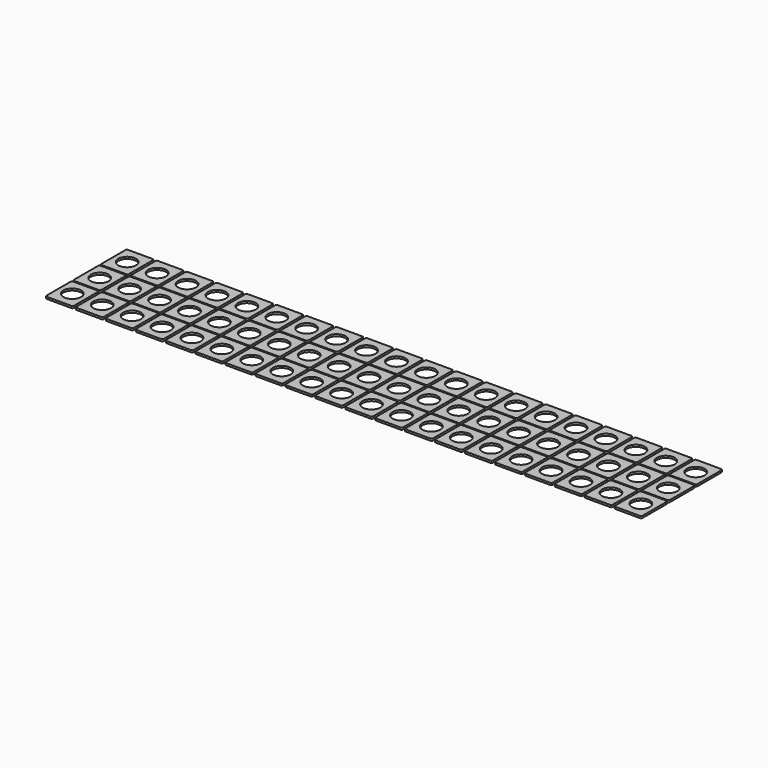
from build123d import *

# Parameters (mm, degrees)
F0_R     = 6.5
F1_DEPTH = 1.45


with BuildPart() as f1:
    # F0 (on Top) → F1 (new body)
    with BuildSketch(Plane.XY):
        with BuildLine():
            Line((-216, 135), (-234, 135))
            ThreePointArc((-234, 135), (-234.707107, 134.707107), (-235, 134))
            Line((-235, 134), (-235, 112))
            ThreePointArc((-235, 112), (-234.707107, 111.292893), (-234, 111))
            Line((-234, 111), (-216, 111))
            ThreePointArc((-216, 111), (-215.292893, 111.292893), (-215, 112))
            Line((-215, 112), (-215, 134))
            ThreePointArc((-215, 134), (-215.292893, 134.707107), (-216, 135))
        make_face()
        with Locations((-225, 123)):
            Circle(F0_R, mode=Mode.SUBTRACT)
        with BuildLine():
            ThreePointArc((-234, 110), (-234.707107, 109.707107), (-235, 109))
            Line((-235, 109), (-235, 87))
            ThreePointArc((-235, 87), (-234.707107, 86.292893), (-234, 86))
            Line((-234, 86), (-216, 86))
            ThreePointArc((-216, 86), (-215.292893, 86.292893), (-215, 87))
            Line((-215, 87), (-215, 109))
            ThreePointArc((-215, 109), (-215.292893, 109.707107), (-216, 110))
            Line((-216, 110), (-234, 110))
        make_face()
        with Locations((-225, 98)):
            Circle(F0_R, mode=Mode.SUBTRACT)
        with BuildLine():
            ThreePointArc((-234, 85), (-234.707107, 84.707107), (-235, 84))
            Line((-235, 84), (-235, 62))
            ThreePointArc((-235, 62), (-234.707107, 61.292893), (-234, 61))
            Line((-234, 61), (-216, 61))
            ThreePointArc((-216, 61), (-215.292893, 61.292893), (-215, 62))
            Line((-215, 62), (-215, 84))
            ThreePointArc((-215, 84), (-215.292893, 84.707107), (-216, 85))
            Line((-216, 85), (-234, 85))
        make_face()
        with Locations((-225, 73)):
            Circle(F0_R, mode=Mode.SUBTRACT)
        with BuildLine():
            ThreePointArc((-212.2, 135), (-212.907107, 134.707107), (-213.2, 134))
            Line((-213.2, 134), (-213.2, 112))
            ThreePointArc((-213.2, 112), (-212.907107, 111.292893), (-212.2, 111))
            Line((-212.2, 111), (-194.2, 111))
            ThreePointArc((-194.2, 111), (-193.492893, 111.292893), (-193.2, 112))
            Line((-193.2, 112), (-193.2, 134))
            ThreePointArc((-193.2, 134), (-193.492893, 134.707107), (-194.2, 135))
            Line((-194.2, 135), (-212.2, 135))
        make_face()
        with Locations((-203.2, 123)):
            Circle(F0_R, mode=Mode.SUBTRACT)
        with BuildLine():
            ThreePointArc((-212.2, 110), (-212.907107, 109.707107), (-213.2, 109))
            Line((-213.2, 109), (-213.2, 87))
            ThreePointArc((-213.2, 87), (-212.907107, 86.292893), (-212.2, 86))
            Line((-212.2, 86), (-194.2, 86))
            ThreePointArc((-194.2, 86), (-193.492893, 86.292893), (-193.2, 87))
            Line((-193.2, 87), (-193.2, 109))
            ThreePointArc((-193.2, 109), (-193.492893, 109.707107), (-194.2, 110))
            Line((-194.2, 110), (-212.2, 110))
        make_face()
        with Locations((-203.2, 98)):
            Circle(F0_R, mode=Mode.SUBTRACT)
        with BuildLine():
            ThreePointArc((-212.2, 85), (-212.907107, 84.707107), (-213.2, 84))
            Line((-213.2, 84), (-213.2, 62))
            ThreePointArc((-213.2, 62), (-212.907107, 61.292893), (-212.2, 61))
            Line((-212.2, 61), (-194.2, 61))
            ThreePointArc((-194.2, 61), (-193.492893, 61.292893), (-193.2, 62))
            Line((-193.2, 62), (-193.2, 84))
            ThreePointArc((-193.2, 84), (-193.492893, 84.707107), (-194.2, 85))
            Line((-194.2, 85), (-212.2, 85))
        make_face()
        with Locations((-203.2, 73)):
            Circle(F0_R, mode=Mode.SUBTRACT)
        with BuildLine():
            ThreePointArc((-190.4, 135), (-191.107107, 134.707107), (-191.4, 134))
            Line((-191.4, 134), (-191.4, 112))
            ThreePointArc((-191.4, 112), (-191.107107, 111.292893), (-190.4, 111))
            Line((-190.4, 111), (-172.4, 111))
            ThreePointArc((-172.4, 111), (-171.692893, 111.292893), (-171.4, 112))
            Line((-171.4, 112), (-171.4, 134))
            ThreePointArc((-171.4, 134), (-171.692893, 134.707107), (-172.4, 135))
            Line((-172.4, 135), (-190.4, 135))
        make_face()
        with Locations((-181.4, 123)):
            Circle(F0_R, mode=Mode.SUBTRACT)
        with BuildLine():
            ThreePointArc((-190.4, 110), (-191.107107, 109.707107), (-191.4, 109))
            Line((-191.4, 109), (-191.4, 87))
            ThreePointArc((-191.4, 87), (-191.107107, 86.292893), (-190.4, 86))
            Line((-190.4, 86), (-172.4, 86))
            ThreePointArc((-172.4, 86), (-171.692893, 86.292893), (-171.4, 87))
            Line((-171.4, 87), (-171.4, 109))
            ThreePointArc((-171.4, 109), (-171.692893, 109.707107), (-172.4, 110))
            Line((-172.4, 110), (-190.4, 110))
        make_face()
        with Locations((-181.4, 98)):
            Circle(F0_R, mode=Mode.SUBTRACT)
        with BuildLine():
            ThreePointArc((-190.4, 85), (-191.107107, 84.707107), (-191.4, 84))
            Line((-191.4, 84), (-191.4, 62))
            ThreePointArc((-191.4, 62), (-191.107107, 61.292893), (-190.4, 61))
            Line((-190.4, 61), (-172.4, 61))
            ThreePointArc((-172.4, 61), (-171.692893, 61.292893), (-171.4, 62))
            Line((-171.4, 62), (-171.4, 84))
            ThreePointArc((-171.4, 84), (-171.692893, 84.707107), (-172.4, 85))
            Line((-172.4, 85), (-190.4, 85))
        make_face()
        with Locations((-181.4, 73)):
            Circle(F0_R, mode=Mode.SUBTRACT)
        with BuildLine():
            ThreePointArc((-168.6, 135), (-169.307107, 134.707107), (-169.6, 134))
            Line((-169.6, 134), (-169.6, 112))
            ThreePointArc((-169.6, 112), (-169.307107, 111.292893), (-168.6, 111))
            Line((-168.6, 111), (-150.6, 111))
            ThreePointArc((-150.6, 111), (-149.892893, 111.292893), (-149.6, 112))
            Line((-149.6, 112), (-149.6, 134))
            ThreePointArc((-149.6, 134), (-149.892893, 134.707107), (-150.6, 135))
            Line((-150.6, 135), (-168.6, 135))
        make_face()
        with Locations((-159.6, 123)):
            Circle(F0_R, mode=Mode.SUBTRACT)
        with BuildLine():
            ThreePointArc((-168.6, 110), (-169.307107, 109.707107), (-169.6, 109))
            Line((-169.6, 109), (-169.6, 87))
            ThreePointArc((-169.6, 87), (-169.307107, 86.292893), (-168.6, 86))
            Line((-168.6, 86), (-150.6, 86))
            ThreePointArc((-150.6, 86), (-149.892893, 86.292893), (-149.6, 87))
            Line((-149.6, 87), (-149.6, 109))
            ThreePointArc((-149.6, 109), (-149.892893, 109.707107), (-150.6, 110))
            Line((-150.6, 110), (-168.6, 110))
        make_face()
        with Locations((-159.6, 98)):
            Circle(F0_R, mode=Mode.SUBTRACT)
        with BuildLine():
            ThreePointArc((-168.6, 85), (-169.307107, 84.707107), (-169.6, 84))
            Line((-169.6, 84), (-169.6, 62))
            ThreePointArc((-169.6, 62), (-169.307107, 61.292893), (-168.6, 61))
            Line((-168.6, 61), (-150.6, 61))
            ThreePointArc((-150.6, 61), (-149.892893, 61.292893), (-149.6, 62))
            Line((-149.6, 62), (-149.6, 84))
            ThreePointArc((-149.6, 84), (-149.892893, 84.707107), (-150.6, 85))
            Line((-150.6, 85), (-168.6, 85))
        make_face()
        with Locations((-159.6, 73)):
            Circle(F0_R, mode=Mode.SUBTRACT)
        with BuildLine():
            ThreePointArc((-146.8, 135), (-147.507107, 134.707107), (-147.8, 134))
            Line((-147.8, 134), (-147.8, 112))
            ThreePointArc((-147.8, 112), (-147.507107, 111.292893), (-146.8, 111))
            Line((-146.8, 111), (-128.8, 111))
            ThreePointArc((-128.8, 111), (-128.092893, 111.292893), (-127.8, 112))
            Line((-127.8, 112), (-127.8, 134))
            ThreePointArc((-127.8, 134), (-128.092893, 134.707107), (-128.8, 135))
            Line((-128.8, 135), (-146.8, 135))
        make_face()
        with Locations((-137.8, 123)):
            Circle(F0_R, mode=Mode.SUBTRACT)
        with BuildLine():
            ThreePointArc((-146.8, 110), (-147.507107, 109.707107), (-147.8, 109))
            Line((-147.8, 109), (-147.8, 87))
            ThreePointArc((-147.8, 87), (-147.507107, 86.292893), (-146.8, 86))
            Line((-146.8, 86), (-128.8, 86))
            ThreePointArc((-128.8, 86), (-128.092893, 86.292893), (-127.8, 87))
            Line((-127.8, 87), (-127.8, 109))
            ThreePointArc((-127.8, 109), (-128.092893, 109.707107), (-128.8, 110))
            Line((-128.8, 110), (-146.8, 110))
        make_face()
        with Locations((-137.8, 98)):
            Circle(F0_R, mode=Mode.SUBTRACT)
        with BuildLine():
            ThreePointArc((-146.8, 85), (-147.507107, 84.707107), (-147.8, 84))
            Line((-147.8, 84), (-147.8, 62))
            ThreePointArc((-147.8, 62), (-147.507107, 61.292893), (-146.8, 61))
            Line((-146.8, 61), (-128.8, 61))
            ThreePointArc((-128.8, 61), (-128.092893, 61.292893), (-127.8, 62))
            Line((-127.8, 62), (-127.8, 84))
            ThreePointArc((-127.8, 84), (-128.092893, 84.707107), (-128.8, 85))
            Line((-128.8, 85), (-146.8, 85))
        make_face()
        with Locations((-137.8, 73)):
            Circle(F0_R, mode=Mode.SUBTRACT)
        with BuildLine():
            ThreePointArc((-125, 135), (-125.707107, 134.707107), (-126, 134))
            Line((-126, 134), (-126, 112))
            ThreePointArc((-126, 112), (-125.707107, 111.292893), (-125, 111))
            Line((-125, 111), (-107, 111))
            ThreePointArc((-107, 111), (-106.292893, 111.292893), (-106, 112))
            Line((-106, 112), (-106, 134))
            ThreePointArc((-106, 134), (-106.292893, 134.707107), (-107, 135))
            Line((-107, 135), (-125, 135))
        make_face()
        with Locations((-116, 123)):
            Circle(F0_R, mode=Mode.SUBTRACT)
        with BuildLine():
            ThreePointArc((-125, 110), (-125.707107, 109.707107), (-126, 109))
            Line((-126, 109), (-126, 87))
            ThreePointArc((-126, 87), (-125.707107, 86.292893), (-125, 86))
            Line((-125, 86), (-107, 86))
            ThreePointArc((-107, 86), (-106.292893, 86.292893), (-106, 87))
            Line((-106, 87), (-106, 109))
            ThreePointArc((-106, 109), (-106.292893, 109.707107), (-107, 110))
            Line((-107, 110), (-125, 110))
        make_face()
        with Locations((-116, 98)):
            Circle(F0_R, mode=Mode.SUBTRACT)
        with BuildLine():
            ThreePointArc((-125, 85), (-125.707107, 84.707107), (-126, 84))
            Line((-126, 84), (-126, 62))
            ThreePointArc((-126, 62), (-125.707107, 61.292893), (-125, 61))
            Line((-125, 61), (-107, 61))
            ThreePointArc((-107, 61), (-106.292893, 61.292893), (-106, 62))
            Line((-106, 62), (-106, 84))
            ThreePointArc((-106, 84), (-106.292893, 84.707107), (-107, 85))
            Line((-107, 85), (-125, 85))
        make_face()
        with Locations((-116, 73)):
            Circle(F0_R, mode=Mode.SUBTRACT)
        with BuildLine():
            ThreePointArc((-103.2, 135), (-103.907107, 134.707107), (-104.2, 134))
            Line((-104.2, 134), (-104.2, 112))
            ThreePointArc((-104.2, 112), (-103.907107, 111.292893), (-103.2, 111))
            Line((-103.2, 111), (-85.2, 111))
            ThreePointArc((-85.2, 111), (-84.492893, 111.292893), (-84.2, 112))
            Line((-84.2, 112), (-84.2, 134))
            ThreePointArc((-84.2, 134), (-84.492893, 134.707107), (-85.2, 135))
            Line((-85.2, 135), (-103.2, 135))
        make_face()
        with Locations((-94.2, 123)):
            Circle(F0_R, mode=Mode.SUBTRACT)
        with BuildLine():
            ThreePointArc((-103.2, 110), (-103.907107, 109.707107), (-104.2, 109))
            Line((-104.2, 109), (-104.2, 87))
            ThreePointArc((-104.2, 87), (-103.907107, 86.292893), (-103.2, 86))
            Line((-103.2, 86), (-85.2, 86))
            ThreePointArc((-85.2, 86), (-84.492893, 86.292893), (-84.2, 87))
            Line((-84.2, 87), (-84.2, 109))
            ThreePointArc((-84.2, 109), (-84.492893, 109.707107), (-85.2, 110))
            Line((-85.2, 110), (-103.2, 110))
        make_face()
        with Locations((-94.2, 98)):
            Circle(F0_R, mode=Mode.SUBTRACT)
        with BuildLine():
            ThreePointArc((-103.2, 85), (-103.907107, 84.707107), (-104.2, 84))
            Line((-104.2, 84), (-104.2, 62))
            ThreePointArc((-104.2, 62), (-103.907107, 61.292893), (-103.2, 61))
            Line((-103.2, 61), (-85.2, 61))
            ThreePointArc((-85.2, 61), (-84.492893, 61.292893), (-84.2, 62))
            Line((-84.2, 62), (-84.2, 84))
            ThreePointArc((-84.2, 84), (-84.492893, 84.707107), (-85.2, 85))
            Line((-85.2, 85), (-103.2, 85))
        make_face()
        with Locations((-94.2, 73)):
            Circle(F0_R, mode=Mode.SUBTRACT)
        with BuildLine():
            ThreePointArc((-81.4, 135), (-82.107107, 134.707107), (-82.4, 134))
            Line((-82.4, 134), (-82.4, 112))
            ThreePointArc((-82.4, 112), (-82.107107, 111.292893), (-81.4, 111))
            Line((-81.4, 111), (-63.4, 111))
            ThreePointArc((-63.4, 111), (-62.692893, 111.292893), (-62.4, 112))
            Line((-62.4, 112), (-62.4, 134))
            ThreePointArc((-62.4, 134), (-62.692893, 134.707107), (-63.4, 135))
            Line((-63.4, 135), (-81.4, 135))
        make_face()
        with Locations((-72.4, 123)):
            Circle(F0_R, mode=Mode.SUBTRACT)
        with BuildLine():
            ThreePointArc((-81.4, 110), (-82.107107, 109.707107), (-82.4, 109))
            Line((-82.4, 109), (-82.4, 87))
            ThreePointArc((-82.4, 87), (-82.107107, 86.292893), (-81.4, 86))
            Line((-81.4, 86), (-63.4, 86))
            ThreePointArc((-63.4, 86), (-62.692893, 86.292893), (-62.4, 87))
            Line((-62.4, 87), (-62.4, 109))
            ThreePointArc((-62.4, 109), (-62.692893, 109.707107), (-63.4, 110))
            Line((-63.4, 110), (-81.4, 110))
        make_face()
        with Locations((-72.4, 98)):
            Circle(F0_R, mode=Mode.SUBTRACT)
        with BuildLine():
            ThreePointArc((-81.4, 85), (-82.107107, 84.707107), (-82.4, 84))
            Line((-82.4, 84), (-82.4, 62))
            ThreePointArc((-82.4, 62), (-82.107107, 61.292893), (-81.4, 61))
            Line((-81.4, 61), (-63.4, 61))
            ThreePointArc((-63.4, 61), (-62.692893, 61.292893), (-62.4, 62))
            Line((-62.4, 62), (-62.4, 84))
            ThreePointArc((-62.4, 84), (-62.692893, 84.707107), (-63.4, 85))
            Line((-63.4, 85), (-81.4, 85))
        make_face()
        with Locations((-72.4, 73)):
            Circle(F0_R, mode=Mode.SUBTRACT)
        with BuildLine():
            ThreePointArc((-59.6, 135), (-60.307107, 134.707107), (-60.6, 134))
            Line((-60.6, 134), (-60.6, 112))
            ThreePointArc((-60.6, 112), (-60.307107, 111.292893), (-59.6, 111))
            Line((-59.6, 111), (-41.6, 111))
            ThreePointArc((-41.6, 111), (-40.892893, 111.292893), (-40.6, 112))
            Line((-40.6, 112), (-40.6, 134))
            ThreePointArc((-40.6, 134), (-40.892893, 134.707107), (-41.6, 135))
            Line((-41.6, 135), (-59.6, 135))
        make_face()
        with Locations((-50.6, 123)):
            Circle(F0_R, mode=Mode.SUBTRACT)
        with BuildLine():
            ThreePointArc((-59.6, 110), (-60.307107, 109.707107), (-60.6, 109))
            Line((-60.6, 109), (-60.6, 87))
            ThreePointArc((-60.6, 87), (-60.307107, 86.292893), (-59.6, 86))
            Line((-59.6, 86), (-41.6, 86))
            ThreePointArc((-41.6, 86), (-40.892893, 86.292893), (-40.6, 87))
            Line((-40.6, 87), (-40.6, 109))
            ThreePointArc((-40.6, 109), (-40.892893, 109.707107), (-41.6, 110))
            Line((-41.6, 110), (-59.6, 110))
        make_face()
        with Locations((-50.6, 98)):
            Circle(F0_R, mode=Mode.SUBTRACT)
        with BuildLine():
            ThreePointArc((-59.6, 85), (-60.307107, 84.707107), (-60.6, 84))
            Line((-60.6, 84), (-60.6, 62))
            ThreePointArc((-60.6, 62), (-60.307107, 61.292893), (-59.6, 61))
            Line((-59.6, 61), (-41.6, 61))
            ThreePointArc((-41.6, 61), (-40.892893, 61.292893), (-40.6, 62))
            Line((-40.6, 62), (-40.6, 84))
            ThreePointArc((-40.6, 84), (-40.892893, 84.707107), (-41.6, 85))
            Line((-41.6, 85), (-59.6, 85))
        make_face()
        with Locations((-50.6, 73)):
            Circle(F0_R, mode=Mode.SUBTRACT)
        with BuildLine():
            ThreePointArc((-37.8, 135), (-38.507107, 134.707107), (-38.8, 134))
            Line((-38.8, 134), (-38.8, 112))
            ThreePointArc((-38.8, 112), (-38.507107, 111.292893), (-37.8, 111))
            Line((-37.8, 111), (-19.8, 111))
            ThreePointArc((-19.8, 111), (-19.092893, 111.292893), (-18.8, 112))
            Line((-18.8, 112), (-18.8, 134))
            ThreePointArc((-18.8, 134), (-19.092893, 134.707107), (-19.8, 135))
            Line((-19.8, 135), (-37.8, 135))
        make_face()
        with Locations((-28.8, 123)):
            Circle(F0_R, mode=Mode.SUBTRACT)
        with BuildLine():
            ThreePointArc((-37.8, 110), (-38.507107, 109.707107), (-38.8, 109))
            Line((-38.8, 109), (-38.8, 87))
            ThreePointArc((-38.8, 87), (-38.507107, 86.292893), (-37.8, 86))
            Line((-37.8, 86), (-19.8, 86))
            ThreePointArc((-19.8, 86), (-19.092893, 86.292893), (-18.8, 87))
            Line((-18.8, 87), (-18.8, 109))
            ThreePointArc((-18.8, 109), (-19.092893, 109.707107), (-19.8, 110))
            Line((-19.8, 110), (-37.8, 110))
        make_face()
        with Locations((-28.8, 98)):
            Circle(F0_R, mode=Mode.SUBTRACT)
        with BuildLine():
            ThreePointArc((-37.8, 85), (-38.507107, 84.707107), (-38.8, 84))
            Line((-38.8, 84), (-38.8, 62))
            ThreePointArc((-38.8, 62), (-38.507107, 61.292893), (-37.8, 61))
            Line((-37.8, 61), (-19.8, 61))
            ThreePointArc((-19.8, 61), (-19.092893, 61.292893), (-18.8, 62))
            Line((-18.8, 62), (-18.8, 84))
            ThreePointArc((-18.8, 84), (-19.092893, 84.707107), (-19.8, 85))
            Line((-19.8, 85), (-37.8, 85))
        make_face()
        with Locations((-28.8, 73)):
            Circle(F0_R, mode=Mode.SUBTRACT)
        with BuildLine():
            ThreePointArc((-16, 135), (-16.707107, 134.707107), (-17, 134))
            Line((-17, 134), (-17, 112))
            ThreePointArc((-17, 112), (-16.707107, 111.292893), (-16, 111))
            Line((-16, 111), (2, 111))
            ThreePointArc((2, 111), (2.707107, 111.292893), (3, 112))
            Line((3, 112), (3, 134))
            ThreePointArc((3, 134), (2.707107, 134.707107), (2, 135))
            Line((2, 135), (-16, 135))
        make_face()
        with Locations((-7, 123)):
            Circle(F0_R, mode=Mode.SUBTRACT)
        with BuildLine():
            ThreePointArc((-16, 110), (-16.707107, 109.707107), (-17, 109))
            Line((-17, 109), (-17, 87))
            ThreePointArc((-17, 87), (-16.707107, 86.292893), (-16, 86))
            Line((-16, 86), (2, 86))
            ThreePointArc((2, 86), (2.707107, 86.292893), (3, 87))
            Line((3, 87), (3, 109))
            ThreePointArc((3, 109), (2.707107, 109.707107), (2, 110))
            Line((2, 110), (-16, 110))
        make_face()
        with Locations((-7, 98)):
            Circle(F0_R, mode=Mode.SUBTRACT)
        with BuildLine():
            ThreePointArc((-16, 85), (-16.707107, 84.707107), (-17, 84))
            Line((-17, 84), (-17, 62))
            ThreePointArc((-17, 62), (-16.707107, 61.292893), (-16, 61))
            Line((-16, 61), (2, 61))
            ThreePointArc((2, 61), (2.707107, 61.292893), (3, 62))
            Line((3, 62), (3, 84))
            ThreePointArc((3, 84), (2.707107, 84.707107), (2, 85))
            Line((2, 85), (-16, 85))
        make_face()
        with Locations((-7, 73)):
            Circle(F0_R, mode=Mode.SUBTRACT)
        with BuildLine():
            ThreePointArc((5.8, 135), (5.092893, 134.707107), (4.8, 134))
            Line((4.8, 134), (4.8, 112))
            ThreePointArc((4.8, 112), (5.092893, 111.292893), (5.8, 111))
            Line((5.8, 111), (23.8, 111))
            ThreePointArc((23.8, 111), (24.507107, 111.292893), (24.8, 112))
            Line((24.8, 112), (24.8, 134))
            ThreePointArc((24.8, 134), (24.507107, 134.707107), (23.8, 135))
            Line((23.8, 135), (5.8, 135))
        make_face()
        with Locations((14.8, 123)):
            Circle(F0_R, mode=Mode.SUBTRACT)
        with BuildLine():
            ThreePointArc((5.8, 110), (5.092893, 109.707107), (4.8, 109))
            Line((4.8, 109), (4.8, 87))
            ThreePointArc((4.8, 87), (5.092893, 86.292893), (5.8, 86))
            Line((5.8, 86), (23.8, 86))
            ThreePointArc((23.8, 86), (24.507107, 86.292893), (24.8, 87))
            Line((24.8, 87), (24.8, 109))
            ThreePointArc((24.8, 109), (24.507107, 109.707107), (23.8, 110))
            Line((23.8, 110), (5.8, 110))
        make_face()
        with Locations((14.8, 98)):
            Circle(F0_R, mode=Mode.SUBTRACT)
        with BuildLine():
            ThreePointArc((5.8, 85), (5.092893, 84.707107), (4.8, 84))
            Line((4.8, 84), (4.8, 62))
            ThreePointArc((4.8, 62), (5.092893, 61.292893), (5.8, 61))
            Line((5.8, 61), (23.8, 61))
            ThreePointArc((23.8, 61), (24.507107, 61.292893), (24.8, 62))
            Line((24.8, 62), (24.8, 84))
            ThreePointArc((24.8, 84), (24.507107, 84.707107), (23.8, 85))
            Line((23.8, 85), (5.8, 85))
        make_face()
        with Locations((14.8, 73)):
            Circle(F0_R, mode=Mode.SUBTRACT)
        with BuildLine():
            ThreePointArc((27.6, 135), (26.892893, 134.707107), (26.6, 134))
            Line((26.6, 134), (26.6, 112))
            ThreePointArc((26.6, 112), (26.892893, 111.292893), (27.6, 111))
            Line((27.6, 111), (45.6, 111))
            ThreePointArc((45.6, 111), (46.307107, 111.292893), (46.6, 112))
            Line((46.6, 112), (46.6, 134))
            ThreePointArc((46.6, 134), (46.307107, 134.707107), (45.6, 135))
            Line((45.6, 135), (27.6, 135))
        make_face()
        with Locations((36.6, 123)):
            Circle(F0_R, mode=Mode.SUBTRACT)
        with BuildLine():
            ThreePointArc((27.6, 110), (26.892893, 109.707107), (26.6, 109))
            Line((26.6, 109), (26.6, 87))
            ThreePointArc((26.6, 87), (26.892893, 86.292893), (27.6, 86))
            Line((27.6, 86), (45.6, 86))
            ThreePointArc((45.6, 86), (46.307107, 86.292893), (46.6, 87))
            Line((46.6, 87), (46.6, 109))
            ThreePointArc((46.6, 109), (46.307107, 109.707107), (45.6, 110))
            Line((45.6, 110), (27.6, 110))
        make_face()
        with Locations((36.6, 98)):
            Circle(F0_R, mode=Mode.SUBTRACT)
        with BuildLine():
            ThreePointArc((27.6, 85), (26.892893, 84.707107), (26.6, 84))
            Line((26.6, 84), (26.6, 62))
            ThreePointArc((26.6, 62), (26.892893, 61.292893), (27.6, 61))
            Line((27.6, 61), (45.6, 61))
            ThreePointArc((45.6, 61), (46.307107, 61.292893), (46.6, 62))
            Line((46.6, 62), (46.6, 84))
            ThreePointArc((46.6, 84), (46.307107, 84.707107), (45.6, 85))
            Line((45.6, 85), (27.6, 85))
        make_face()
        with Locations((36.6, 73)):
            Circle(F0_R, mode=Mode.SUBTRACT)
        with BuildLine():
            ThreePointArc((49.4, 135), (48.692893, 134.707107), (48.4, 134))
            Line((48.4, 134), (48.4, 112))
            ThreePointArc((48.4, 112), (48.692893, 111.292893), (49.4, 111))
            Line((49.4, 111), (67.4, 111))
            ThreePointArc((67.4, 111), (68.107107, 111.292893), (68.4, 112))
            Line((68.4, 112), (68.4, 134))
            ThreePointArc((68.4, 134), (68.107107, 134.707107), (67.4, 135))
            Line((67.4, 135), (49.4, 135))
        make_face()
        with Locations((58.4, 123)):
            Circle(F0_R, mode=Mode.SUBTRACT)
        with BuildLine():
            ThreePointArc((49.4, 110), (48.692893, 109.707107), (48.4, 109))
            Line((48.4, 109), (48.4, 87))
            ThreePointArc((48.4, 87), (48.692893, 86.292893), (49.4, 86))
            Line((49.4, 86), (67.4, 86))
            ThreePointArc((67.4, 86), (68.107107, 86.292893), (68.4, 87))
            Line((68.4, 87), (68.4, 109))
            ThreePointArc((68.4, 109), (68.107107, 109.707107), (67.4, 110))
            Line((67.4, 110), (49.4, 110))
        make_face()
        with Locations((58.4, 98)):
            Circle(F0_R, mode=Mode.SUBTRACT)
        with BuildLine():
            ThreePointArc((49.4, 85), (48.692893, 84.707107), (48.4, 84))
            Line((48.4, 84), (48.4, 62))
            ThreePointArc((48.4, 62), (48.692893, 61.292893), (49.4, 61))
            Line((49.4, 61), (67.4, 61))
            ThreePointArc((67.4, 61), (68.107107, 61.292893), (68.4, 62))
            Line((68.4, 62), (68.4, 84))
            ThreePointArc((68.4, 84), (68.107107, 84.707107), (67.4, 85))
            Line((67.4, 85), (49.4, 85))
        make_face()
        with Locations((58.4, 73)):
            Circle(F0_R, mode=Mode.SUBTRACT)
        with BuildLine():
            ThreePointArc((71.2, 135), (70.492893, 134.707107), (70.2, 134))
            Line((70.2, 134), (70.2, 112))
            ThreePointArc((70.2, 112), (70.492893, 111.292893), (71.2, 111))
            Line((71.2, 111), (89.2, 111))
            ThreePointArc((89.2, 111), (89.907107, 111.292893), (90.2, 112))
            Line((90.2, 112), (90.2, 134))
            ThreePointArc((90.2, 134), (89.907107, 134.707107), (89.2, 135))
            Line((89.2, 135), (71.2, 135))
        make_face()
        with Locations((80.2, 123)):
            Circle(F0_R, mode=Mode.SUBTRACT)
        with BuildLine():
            ThreePointArc((71.2, 110), (70.492893, 109.707107), (70.2, 109))
            Line((70.2, 109), (70.2, 87))
            ThreePointArc((70.2, 87), (70.492893, 86.292893), (71.2, 86))
            Line((71.2, 86), (89.2, 86))
            ThreePointArc((89.2, 86), (89.907107, 86.292893), (90.2, 87))
            Line((90.2, 87), (90.2, 109))
            ThreePointArc((90.2, 109), (89.907107, 109.707107), (89.2, 110))
            Line((89.2, 110), (71.2, 110))
        make_face()
        with Locations((80.2, 98)):
            Circle(F0_R, mode=Mode.SUBTRACT)
        with BuildLine():
            ThreePointArc((71.2, 85), (70.492893, 84.707107), (70.2, 84))
            Line((70.2, 84), (70.2, 62))
            ThreePointArc((70.2, 62), (70.492893, 61.292893), (71.2, 61))
            Line((71.2, 61), (89.2, 61))
            ThreePointArc((89.2, 61), (89.907107, 61.292893), (90.2, 62))
            Line((90.2, 62), (90.2, 84))
            ThreePointArc((90.2, 84), (89.907107, 84.707107), (89.2, 85))
            Line((89.2, 85), (71.2, 85))
        make_face()
        with Locations((80.2, 73)):
            Circle(F0_R, mode=Mode.SUBTRACT)
        with BuildLine():
            ThreePointArc((93, 135), (92.292893, 134.707107), (92, 134))
            Line((92, 134), (92, 112))
            ThreePointArc((92, 112), (92.292893, 111.292893), (93, 111))
            Line((93, 111), (111, 111))
            ThreePointArc((111, 111), (111.707107, 111.292893), (112, 112))
            Line((112, 112), (112, 134))
            ThreePointArc((112, 134), (111.707107, 134.707107), (111, 135))
            Line((111, 135), (93, 135))
        make_face()
        with Locations((102, 123)):
            Circle(F0_R, mode=Mode.SUBTRACT)
        with BuildLine():
            ThreePointArc((93, 110), (92.292893, 109.707107), (92, 109))
            Line((92, 109), (92, 87))
            ThreePointArc((92, 87), (92.292893, 86.292893), (93, 86))
            Line((93, 86), (111, 86))
            ThreePointArc((111, 86), (111.707107, 86.292893), (112, 87))
            Line((112, 87), (112, 109))
            ThreePointArc((112, 109), (111.707107, 109.707107), (111, 110))
            Line((111, 110), (93, 110))
        make_face()
        with Locations((102, 98)):
            Circle(F0_R, mode=Mode.SUBTRACT)
        with BuildLine():
            ThreePointArc((93, 85), (92.292893, 84.707107), (92, 84))
            Line((92, 84), (92, 62))
            ThreePointArc((92, 62), (92.292893, 61.292893), (93, 61))
            Line((93, 61), (111, 61))
            ThreePointArc((111, 61), (111.707107, 61.292893), (112, 62))
            Line((112, 62), (112, 84))
            ThreePointArc((112, 84), (111.707107, 84.707107), (111, 85))
            Line((111, 85), (93, 85))
        make_face()
        with Locations((102, 73)):
            Circle(F0_R, mode=Mode.SUBTRACT)
        with BuildLine():
            ThreePointArc((114.8, 135), (114.092893, 134.707107), (113.8, 134))
            Line((113.8, 134), (113.8, 112))
            ThreePointArc((113.8, 112), (114.092893, 111.292893), (114.8, 111))
            Line((114.8, 111), (132.8, 111))
            ThreePointArc((132.8, 111), (133.507107, 111.292893), (133.8, 112))
            Line((133.8, 112), (133.8, 134))
            ThreePointArc((133.8, 134), (133.507107, 134.707107), (132.8, 135))
            Line((132.8, 135), (114.8, 135))
        make_face()
        with Locations((123.8, 123)):
            Circle(F0_R, mode=Mode.SUBTRACT)
        with BuildLine():
            ThreePointArc((114.8, 110), (114.092893, 109.707107), (113.8, 109))
            Line((113.8, 109), (113.8, 87))
            ThreePointArc((113.8, 87), (114.092893, 86.292893), (114.8, 86))
            Line((114.8, 86), (132.8, 86))
            ThreePointArc((132.8, 86), (133.507107, 86.292893), (133.8, 87))
            Line((133.8, 87), (133.8, 109))
            ThreePointArc((133.8, 109), (133.507107, 109.707107), (132.8, 110))
            Line((132.8, 110), (114.8, 110))
        make_face()
        with Locations((123.8, 98)):
            Circle(F0_R, mode=Mode.SUBTRACT)
        with BuildLine():
            ThreePointArc((114.8, 85), (114.092893, 84.707107), (113.8, 84))
            Line((113.8, 84), (113.8, 62))
            ThreePointArc((113.8, 62), (114.092893, 61.292893), (114.8, 61))
            Line((114.8, 61), (132.8, 61))
            ThreePointArc((132.8, 61), (133.507107, 61.292893), (133.8, 62))
            Line((133.8, 62), (133.8, 84))
            ThreePointArc((133.8, 84), (133.507107, 84.707107), (132.8, 85))
            Line((132.8, 85), (114.8, 85))
        make_face()
        with Locations((123.8, 73)):
            Circle(F0_R, mode=Mode.SUBTRACT)
        with BuildLine():
            ThreePointArc((136.6, 135), (135.892893, 134.707107), (135.6, 134))
            Line((135.6, 134), (135.6, 112))
            ThreePointArc((135.6, 112), (135.892893, 111.292893), (136.6, 111))
            Line((136.6, 111), (154.6, 111))
            ThreePointArc((154.6, 111), (155.307107, 111.292893), (155.6, 112))
            Line((155.6, 112), (155.6, 134))
            ThreePointArc((155.6, 134), (155.307107, 134.707107), (154.6, 135))
            Line((154.6, 135), (136.6, 135))
        make_face()
        with Locations((145.6, 123)):
            Circle(F0_R, mode=Mode.SUBTRACT)
        with BuildLine():
            ThreePointArc((136.6, 110), (135.892893, 109.707107), (135.6, 109))
            Line((135.6, 109), (135.6, 87))
            ThreePointArc((135.6, 87), (135.892893, 86.292893), (136.6, 86))
            Line((136.6, 86), (154.6, 86))
            ThreePointArc((154.6, 86), (155.307107, 86.292893), (155.6, 87))
            Line((155.6, 87), (155.6, 109))
            ThreePointArc((155.6, 109), (155.307107, 109.707107), (154.6, 110))
            Line((154.6, 110), (136.6, 110))
        make_face()
        with Locations((145.6, 98)):
            Circle(F0_R, mode=Mode.SUBTRACT)
        with BuildLine():
            ThreePointArc((136.6, 85), (135.892893, 84.707107), (135.6, 84))
            Line((135.6, 84), (135.6, 62))
            ThreePointArc((135.6, 62), (135.892893, 61.292893), (136.6, 61))
            Line((136.6, 61), (154.6, 61))
            ThreePointArc((154.6, 61), (155.307107, 61.292893), (155.6, 62))
            Line((155.6, 62), (155.6, 84))
            ThreePointArc((155.6, 84), (155.307107, 84.707107), (154.6, 85))
            Line((154.6, 85), (136.6, 85))
        make_face()
        with Locations((145.6, 73)):
            Circle(F0_R, mode=Mode.SUBTRACT)
        with BuildLine():
            ThreePointArc((158.4, 135), (157.692893, 134.707107), (157.4, 134))
            Line((157.4, 134), (157.4, 112))
            ThreePointArc((157.4, 112), (157.692893, 111.292893), (158.4, 111))
            Line((158.4, 111), (176.4, 111))
            ThreePointArc((176.4, 111), (177.107107, 111.292893), (177.4, 112))
            Line((177.4, 112), (177.4, 134))
            ThreePointArc((177.4, 134), (177.107107, 134.707107), (176.4, 135))
            Line((176.4, 135), (158.4, 135))
        make_face()
        with Locations((167.4, 123)):
            Circle(F0_R, mode=Mode.SUBTRACT)
        with BuildLine():
            ThreePointArc((158.4, 110), (157.692893, 109.707107), (157.4, 109))
            Line((157.4, 109), (157.4, 87))
            ThreePointArc((157.4, 87), (157.692893, 86.292893), (158.4, 86))
            Line((158.4, 86), (176.4, 86))
            ThreePointArc((176.4, 86), (177.107107, 86.292893), (177.4, 87))
            Line((177.4, 87), (177.4, 109))
            ThreePointArc((177.4, 109), (177.107107, 109.707107), (176.4, 110))
            Line((176.4, 110), (158.4, 110))
        make_face()
        with Locations((167.4, 98)):
            Circle(F0_R, mode=Mode.SUBTRACT)
        with BuildLine():
            ThreePointArc((158.4, 85), (157.692893, 84.707107), (157.4, 84))
            Line((157.4, 84), (157.4, 62))
            ThreePointArc((157.4, 62), (157.692893, 61.292893), (158.4, 61))
            Line((158.4, 61), (176.4, 61))
            ThreePointArc((176.4, 61), (177.107107, 61.292893), (177.4, 62))
            Line((177.4, 62), (177.4, 84))
            ThreePointArc((177.4, 84), (177.107107, 84.707107), (176.4, 85))
            Line((176.4, 85), (158.4, 85))
        make_face()
        with Locations((167.4, 73)):
            Circle(F0_R, mode=Mode.SUBTRACT)
        with BuildLine():
            ThreePointArc((180.2, 135), (179.492893, 134.707107), (179.2, 134))
            Line((179.2, 134), (179.2, 112))
            ThreePointArc((179.2, 112), (179.492893, 111.292893), (180.2, 111))
            Line((180.2, 111), (198.2, 111))
            ThreePointArc((198.2, 111), (198.907107, 111.292893), (199.2, 112))
            Line((199.2, 112), (199.2, 134))
            ThreePointArc((199.2, 134), (198.907107, 134.707107), (198.2, 135))
            Line((198.2, 135), (180.2, 135))
        make_face()
        with Locations((189.2, 123)):
            Circle(F0_R, mode=Mode.SUBTRACT)
        with BuildLine():
            ThreePointArc((180.2, 110), (179.492893, 109.707107), (179.2, 109))
            Line((179.2, 109), (179.2, 87))
            ThreePointArc((179.2, 87), (179.492893, 86.292893), (180.2, 86))
            Line((180.2, 86), (198.2, 86))
            ThreePointArc((198.2, 86), (198.907107, 86.292893), (199.2, 87))
            Line((199.2, 87), (199.2, 109))
            ThreePointArc((199.2, 109), (198.907107, 109.707107), (198.2, 110))
            Line((198.2, 110), (180.2, 110))
        make_face()
        with Locations((189.2, 98)):
            Circle(F0_R, mode=Mode.SUBTRACT)
        with BuildLine():
            ThreePointArc((180.2, 85), (179.492893, 84.707107), (179.2, 84))
            Line((179.2, 84), (179.2, 62))
            ThreePointArc((179.2, 62), (179.492893, 61.292893), (180.2, 61))
            Line((180.2, 61), (198.2, 61))
            ThreePointArc((198.2, 61), (198.907107, 61.292893), (199.2, 62))
            Line((199.2, 62), (199.2, 84))
            ThreePointArc((199.2, 84), (198.907107, 84.707107), (198.2, 85))
            Line((198.2, 85), (180.2, 85))
        make_face()
        with Locations((189.2, 73)):
            Circle(F0_R, mode=Mode.SUBTRACT)
    extrude(amount=F1_DEPTH)


solid = f1.part
